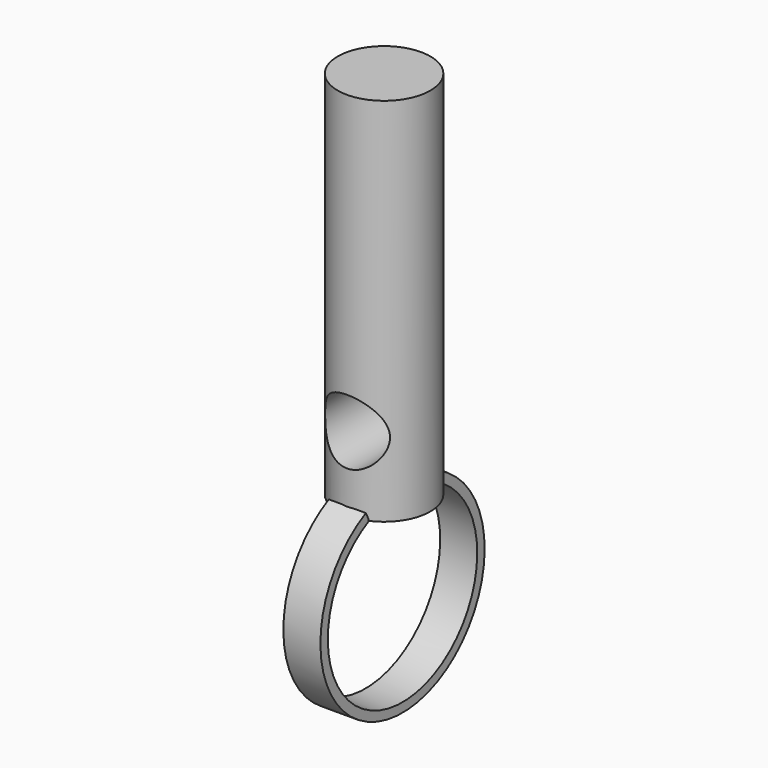
from build123d import *

# Parameters (mm, degrees)
F0_W     = 2.5
F0_H     = 20
F2_R     = 1.75
F3_DEPTH = 2.5
F5_DEPTH = 1


with BuildPart() as f1:
    # F0 (on Front) → F1 (revolve)
    with BuildSketch(Plane.XZ):
        with Locations((-1.25, 10)):
            Rectangle(F0_W, F0_H)
    revolve(axis=Axis((0, 0, 10), (0, 0, 1)))

    # F2 (on Front) → F3 (cut, symmetric)
    with BuildSketch(Plane.XZ):
        with Locations((0, 4)):
            Circle(F2_R)
    extrude(amount=F3_DEPTH, both=True, mode=Mode.SUBTRACT)

    # F4 (on Right) → F5 (join, symmetric)
    with BuildSketch(Plane.YZ):
        with BuildLine():
            ThreePointArc((2.244925, 0), (-0.005075, -9.548809), (-2.255075, 0))
            Line((-2.255075, 0), (-2.478312, 0.447398))
            ThreePointArc((-2.478312, 0.447398), (-0.005075, -10.048809), (2.468162, 0.447398))
            Line((2.468162, 0.447398), (2.244925, 0))
        make_face()
    extrude(amount=F5_DEPTH, both=True)


solid = f1.part
